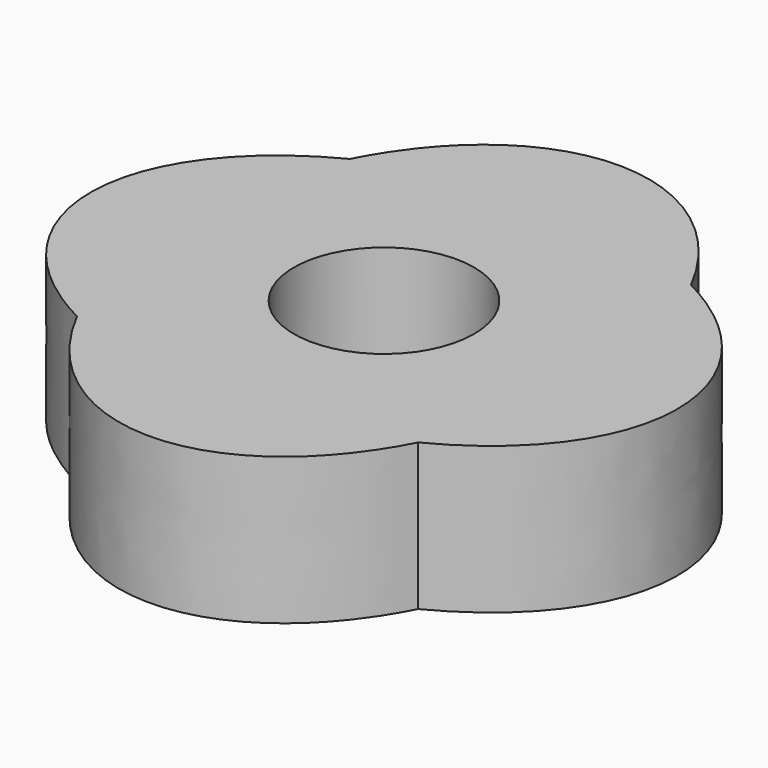
from build123d import *

# Parameters (mm, degrees)
F0_R     = 3.5
F0_R_2   = 2.15
F1_DEPTH = 3.5


with BuildPart() as f1:
    # F0 (on Top) → F1 (new body)
    with BuildSketch(Plane.XY):
        with BuildLine():
            add(Edge.make_bspline(
                [(-4.068667356, 4.068667356), (-5, 2.2432553739), (-5, 0)],
                knots=[4.0921394944, 4.0921394944, 4.0921394944, 4.7123889804, 4.7123889804, 4.7123889804], degree=2, weights=[1, 0.9522955085, 1]))
            add(Edge.make_bspline(
                [(-5, 0), (-5, -2.2432553739), (-4.068667356, -4.068667356)],
                knots=[4.7123889804, 4.7123889804, 4.7123889804, 5.3326384664, 5.3326384664, 5.3326384664], degree=2, weights=[1, 0.9522955085, 1]))
            add(Edge.make_bspline(
                [(-4.068667356, -4.068667356), (0, -6.1445180479), (4.068667356, -4.068667356)],
                knots=[0.9505468408, 0.9505468408, 0.9505468408, 2.1910458128, 2.1910458128, 2.1910458128], degree=2, weights=[1, 0.8137334712, 1]))
            add(Edge.make_bspline(
                [(4.068667356, -4.068667356), (6.1445180479, 0), (4.068667356, 4.068667356)],
                knots=[0.9505468408, 0.9505468408, 0.9505468408, 2.1910458128, 2.1910458128, 2.1910458128], degree=2, weights=[1, 0.8137334712, 1]))
            add(Edge.make_bspline(
                [(4.068667356, 4.068667356), (2.2432553739, 5), (0, 5)],
                knots=[4.0921394944, 4.0921394944, 4.0921394944, 4.7123889804, 4.7123889804, 4.7123889804], degree=2, weights=[1, 0.9522955085, 1]))
            add(Edge.make_bspline(
                [(0, 5), (-2.2432553739, 5), (-4.068667356, 4.068667356)],
                knots=[4.7123889804, 4.7123889804, 4.7123889804, 5.3326384664, 5.3326384664, 5.3326384664], degree=2, weights=[1, 0.9522955085, 1]))
        make_face()
        Circle(F0_R, mode=Mode.SUBTRACT)
        with BuildLine():
            add(Edge.make_bspline(
                [(-5, 0), (-5, -2.2432553739), (-4.068667356, -4.068667356)],
                knots=[4.7123889804, 4.7123889804, 4.7123889804, 5.3326384664, 5.3326384664, 5.3326384664], degree=2, weights=[1, 0.9522955085, 1]))
            add(Edge.make_bspline(
                [(-4.068667356, 4.068667356), (-5, 2.2432553739), (-5, 0)],
                knots=[4.0921394944, 4.0921394944, 4.0921394944, 4.7123889804, 4.7123889804, 4.7123889804], degree=2, weights=[1, 0.9522955085, 1]))
            add(Edge.make_bspline(
                [(-4.068667356, 4.068667356), (-12.0432553739, 0), (-4.068667356, -4.068667356)],
                knots=[5.3326384664, 5.3326384664, 5.3326384664, 7.233732148, 7.233732148, 7.233732148], degree=2, weights=[1, 0.5812381937, 1]))
        make_face()
        with BuildLine():
            add(Edge.make_bspline(
                [(-4.068667356, -4.068667356), (0, -6.1445180479), (4.068667356, -4.068667356)],
                knots=[0.9505468408, 0.9505468408, 0.9505468408, 2.1910458128, 2.1910458128, 2.1910458128], degree=2, weights=[1, 0.8137334712, 1]))
            add(Edge.make_bspline(
                [(-4.068667356, -4.068667356), (0, -12.0432553739), (4.068667356, -4.068667356)],
                knots=[5.3326384664, 5.3326384664, 5.3326384664, 7.233732148, 7.233732148, 7.233732148], degree=2, weights=[1, 0.5812381937, 1]))
        make_face()
        with BuildLine():
            add(Edge.make_bspline(
                [(4.068667356, 4.068667356), (0, 12.0432553739), (-4.068667356, 4.068667356)],
                knots=[2.1910458128, 2.1910458128, 2.1910458128, 4.0921394944, 4.0921394944, 4.0921394944], degree=2, weights=[1, 0.5812381937, 1]))
            add(Edge.make_bspline(
                [(0, 5), (-2.2432553739, 5), (-4.068667356, 4.068667356)],
                knots=[4.7123889804, 4.7123889804, 4.7123889804, 5.3326384664, 5.3326384664, 5.3326384664], degree=2, weights=[1, 0.9522955085, 1]))
            add(Edge.make_bspline(
                [(4.068667356, 4.068667356), (2.2432553739, 5), (0, 5)],
                knots=[4.0921394944, 4.0921394944, 4.0921394944, 4.7123889804, 4.7123889804, 4.7123889804], degree=2, weights=[1, 0.9522955085, 1]))
        make_face()
        with BuildLine():
            add(Edge.make_bspline(
                [(4.068667356, -4.068667356), (6.1445180479, 0), (4.068667356, 4.068667356)],
                knots=[0.9505468408, 0.9505468408, 0.9505468408, 2.1910458128, 2.1910458128, 2.1910458128], degree=2, weights=[1, 0.8137334712, 1]))
            add(Edge.make_bspline(
                [(4.068667356, -4.068667356), (12.0432553739, 0), (4.068667356, 4.068667356)],
                knots=[2.1910458128, 2.1910458128, 2.1910458128, 4.0921394944, 4.0921394944, 4.0921394944], degree=2, weights=[1, 0.5812381937, 1]))
        make_face()
        Circle(F0_R)
        Circle(F0_R_2, mode=Mode.SUBTRACT)
    extrude(amount=F1_DEPTH)


solid = f1.part
